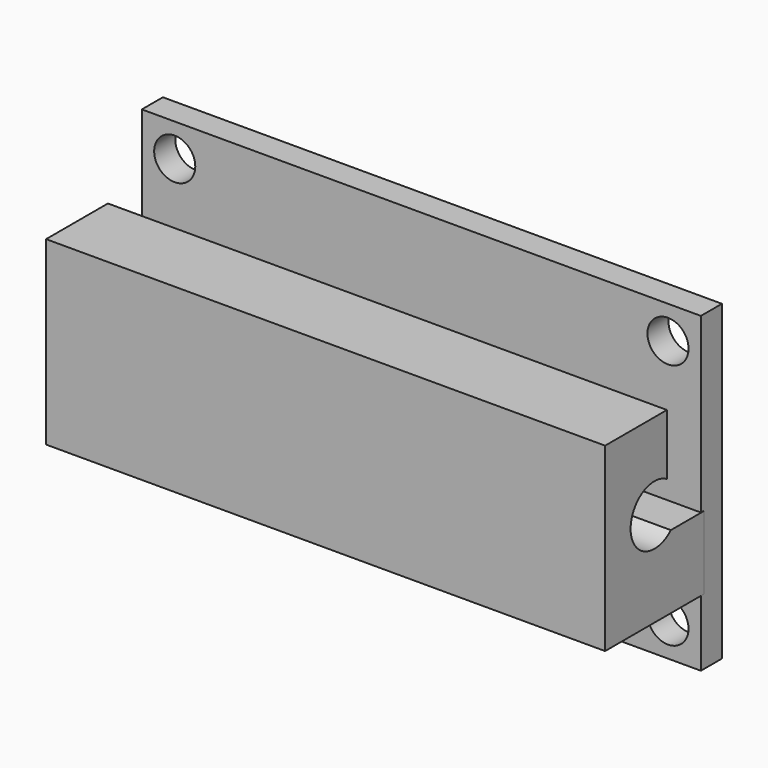
from build123d import *

# Parameters (mm, degrees)
F2_DEPTH      = 23.114
F2_DEPTH_BACK = 20.066
F0_W          = 43.18
F0_H          = 5.08
F0_R          = 1.5875
F0_H_2        = 13.97
F3_DEPTH      = 1.778
F3_DEPTH_BACK = 0.254


with BuildPart() as f2:
    # F1 (on Right) → F2 (new body, two sides)
    with BuildSketch(Plane.YZ) as f2_sk:
        with BuildLine():
            Line((-3.5568174652, 1.3206096099), (-3.5568174652, 6.0123062816))
            Line((-3.5568174652, 6.0123062816), (-9.525, 6.0123062816))
            Line((-9.525, 6.0123062816), (-9.525, -7.9576937184))
            Line((-9.525, -7.9576937184), (0, -7.9576937184))
            Line((0, -7.9576937184), (0, -2.3110547678))
            Line((0, -2.3110547678), (-3.1791398104, -2.3110547678))
            ThreePointArc((-3.1791398104, -2.3110547678), (-7.0520275424, -0.8783480018), (-3.5568174652, 1.3206096099))
        make_face()
    extrude(amount=F2_DEPTH)
    extrude(f2_sk.sketch, amount=-F2_DEPTH_BACK)

    # F0 (on Front) → F3 (join, two sides)
    with BuildSketch(Plane.XZ) as f3_sk:
        with Locations((1.5031718588, 8.5194184199)):
            Rectangle(F0_W, F0_H)
        with Locations((-17.5468281412, 8.5194184199)):
            Circle(F0_R, mode=Mode.SUBTRACT)
        with Locations((20.5531718588, 8.5194184199)):
            Circle(F0_R, mode=Mode.SUBTRACT)
        with Locations((1.5031718588, -1.0055815801)):
            Rectangle(F0_W, F0_H_2)
        with Locations((1.5031718588, -10.5305815801)):
            Rectangle(F0_W, F0_H)
        with Locations((-17.5468281412, -10.5305815801)):
            Circle(F0_R, mode=Mode.SUBTRACT)
        with Locations((20.5531718588, -10.5305815801)):
            Circle(F0_R, mode=Mode.SUBTRACT)
    extrude(amount=-F3_DEPTH)
    extrude(f3_sk.sketch, amount=F3_DEPTH_BACK)


solid = f2.part
